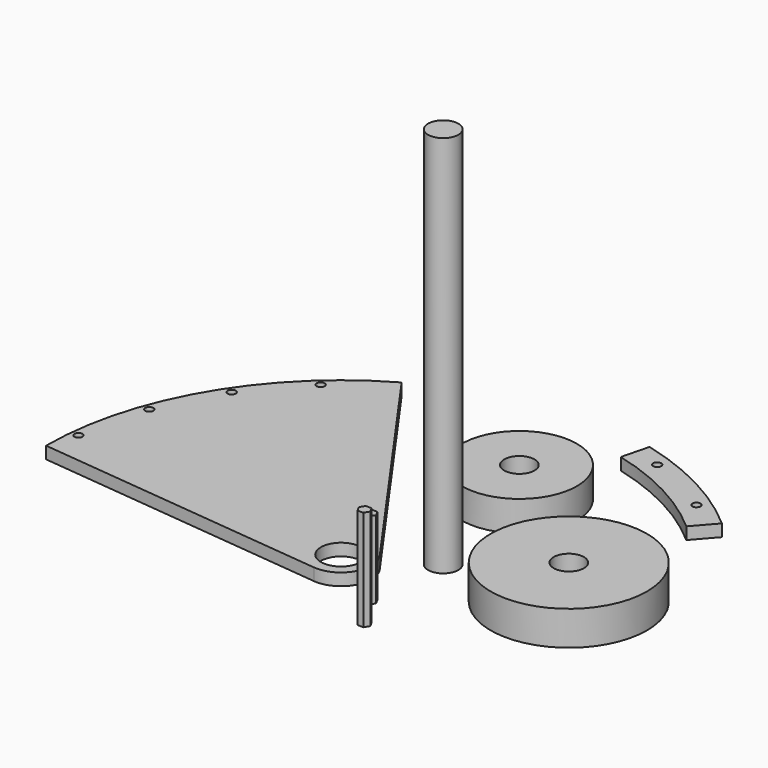
from build123d import *

# Parameters (mm, degrees)
F0_R      = 2.54
F0_R_2    = 12.7
F1_DEPTH  = 7.62
F2_R      = 9.525
F3_DEPTH  = 241.3
F4_R      = 49.2125
F4_R_2    = 9.525
F5_DEPTH  = 21.59
F7_DEPTH  = 48.895
F8_R      = 2.54
F9_DEPTH  = 7.62
F11_DEPTH = 63.5
F12_R     = 36.195
F12_R_2   = 9.525
F13_DEPTH = 19.05


with BuildPart() as f1:
    # F0 (on Top) → F1 (new body)
    with BuildSketch(Plane.XY):
        with BuildLine():
            Line((-185.7375, 0), (-1.953846, -18.949538))
            ThreePointArc((-1.953846, -18.949538), (16.450513, -9.60641), (15.543469, 11.013768))
            Line((15.543469, 11.013768), (-91.274466, 161.763379))
            ThreePointArc((-91.274466, 161.763379), (-160.392503, 93.6625), (-185.7375, 0))
        make_face()
        with Locations((-180.187555, 18.552109)):
            Circle(F0_R, mode=Mode.SUBTRACT)
        with Locations((-170.24433, 61.875715)):
            Circle(F0_R, mode=Mode.SUBTRACT)
        Circle(F0_R_2, mode=Mode.SUBTRACT)
        with BuildLine():
            ThreePointArc((-148.37932, 103.386952), (-147.73724, 102.524355), (-147.509614, 101.473391))
            ThreePointArc((-147.509614, 101.473391), (-152.361988, 100.422427), (-148.37932, 103.386952))
        make_face(mode=Mode.SUBTRACT)
        with Locations((-120.819461, 134.960712)):
            Circle(F0_R, mode=Mode.SUBTRACT)
    extrude(amount=F1_DEPTH)


with BuildPart() as f3:
    # F2 (on Top) → F3 (new body)
    with BuildSketch(Plane.XY):
        with Locations((36.65483, 34.57132)):
            Circle(F2_R)
    extrude(amount=F3_DEPTH)


with BuildPart() as f5:
    # F4 (on Top) → F5 (new body)
    with BuildSketch(Plane.XY):
        with Locations((109.523527, 42.345271)):
            Circle(F4_R)
        with Locations((109.523527, 42.345271)):
            Circle(F4_R_2, mode=Mode.SUBTRACT)
    extrude(amount=F5_DEPTH)


with BuildPart() as f7:
    # F6 (on Top) → F7 (new body)
    with BuildSketch(Plane.XY):
        Polygon((36.750368, -18.404827), (35.027291, -15.168805), (31.363275, -15.043022), (29.422336, -18.153261), (31.145413, -21.389283), (34.809429, -21.515066), align=None)
    extrude(amount=F7_DEPTH)


with BuildPart() as f9:
    # F8 (on Top) → F9 (new body)
    with BuildSketch(Plane.XY):
        with BuildLine():
            Line((113.741228, 129.55908), (125.471446, 142.920605))
            ThreePointArc((125.471446, 142.920605), (88.592481, 168.287717), (46.80607, 184.332784))
            Line((46.80607, 184.332784), (42.43021, 167.099669))
            ThreePointArc((42.43021, 167.099669), (80.310046, 152.554641), (113.741228, 129.55908))
        make_face()
        with Locations((103.405645, 150.453777)):
            Circle(F8_R, mode=Mode.SUBTRACT)
        with Locations((61.57686, 171.864356)):
            Circle(F8_R, mode=Mode.SUBTRACT)
        with BuildLine():
            Line((113.741228, 129.55908), (125.471446, 142.920605))
            ThreePointArc((125.471446, 142.920605), (88.592481, 168.287717), (46.80607, 184.332784))
            Line((46.80607, 184.332784), (42.43021, 167.099669))
            ThreePointArc((42.43021, 167.099669), (80.310046, 152.554641), (113.741228, 129.55908))
        make_face()
        with Locations((103.405645, 150.453777)):
            Circle(F8_R, mode=Mode.SUBTRACT)
        with Locations((61.57686, 171.864356)):
            Circle(F8_R, mode=Mode.SUBTRACT)
    extrude(amount=F9_DEPTH)


with BuildPart() as f11:
    # F10 (on Top) → F11 (new body)
    with BuildSketch(Plane.XY):
        Polygon((49.635048, -39.020847), (47.853509, -35.816639), (44.187814, -35.757392), (42.303657, -38.902354), (44.085195, -42.106563), (47.750891, -42.165809), align=None)
        Polygon((49.635048, -39.020847), (47.853509, -35.816639), (44.187814, -35.757392), (42.303657, -38.902354), (44.085195, -42.106563), (47.750891, -42.165809), align=None)
    extrude(amount=F11_DEPTH)


with BuildPart() as f13:
    # F12 (on Top) → F13 (new body)
    with BuildSketch(Plane.XY):
        with Locations((22.539862, 112.182908)):
            Circle(F12_R)
        with Locations((22.539862, 112.182908)):
            Circle(F12_R_2, mode=Mode.SUBTRACT)
    extrude(amount=F13_DEPTH)


solid = Compound([f1.part, f3.part, f5.part, f7.part, f9.part, f11.part, f13.part])
